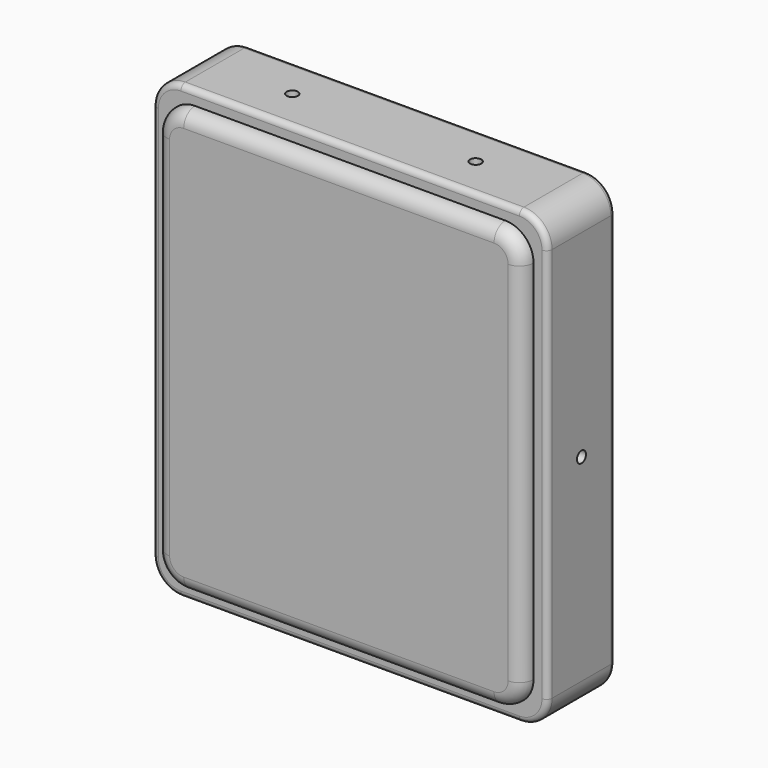
from build123d import *

# Parameters (mm, degrees)
F0_W          = 35.56
F0_H          = 40.64
F1_DEPTH      = 3.81
F1_DEPTH_BACK = 3.81
F3_DEPTH      = 5.08
F4_DEPTH      = 6.35
F5_R          = 2.54
F6_R          = 0.508
F7_R          = 1.27
F8_R          = 0.508
F9_DEPTH      = 35.561
F10_R         = 0.508
F11_DEPTH     = 40.641


with BuildPart() as f1:
    # F0 (on Front) → F1 (new body, two sides)
    with BuildSketch(Plane.XZ) as f1_sk:
        Rectangle(F0_W, F0_H)
    extrude(amount=F1_DEPTH)
    extrude(f1_sk.sketch, amount=-F1_DEPTH_BACK)

    # F2 (on face) → F3 (cut)
    with BuildSketch(Plane.XZ.offset(3.81)):
        with BuildLine():
            Line((13.97, 19.05), (-13.97, 19.05))
            ThreePointArc((-13.97, 19.05), (-15.7660512242, 18.3060512242), (-16.51, 16.51))
            Line((-16.51, 16.51), (-16.51, -16.51))
            ThreePointArc((-16.51, -16.51), (-15.7660512242, -18.3060512242), (-13.97, -19.05))
            Line((-13.97, -19.05), (13.97, -19.05))
            ThreePointArc((13.97, -19.05), (15.7660512242, -18.3060512242), (16.51, -16.51))
            Line((16.51, -16.51), (16.51, 16.51))
            ThreePointArc((16.51, 16.51), (15.7660512242, 18.3060512242), (13.97, 19.05))
        make_face()
    extrude(amount=-F3_DEPTH, mode=Mode.SUBTRACT)


with BuildPart() as f4:
    # F4 (new): a face of the model
    f4_faces = [f1.part.faces().sort_by_distance(p)[0] for p in [
        (0, 1.27, 0),
    ]]
    extrude(f4_faces, amount=F4_DEPTH)

    # F7
    f7_edges = [f4.edges().sort_by_distance(p)[0] for p in [
        (0, -5.08, 19.05),
        (-15.766051, -5.08, 18.306051),
        (-16.51, -5.08, 0),
        (-15.766051, -5.08, -18.306051),
        (0, -5.08, -19.05),
        (15.766051, -5.08, -18.306051),
        (16.51, -5.08, 0),
        (15.766051, -5.08, 18.306051),
    ]]
    fillet(f7_edges, radius=F7_R)


with BuildPart() as f1_1:
    add(f1.part)

    # F5
    f5_edges = [f1_1.edges().sort_by_distance(p)[0] for p in [
        (-17.78, 0, 20.32),
        (17.78, 0, 20.32),
        (17.78, 0, -20.32),
        (-17.78, 0, -20.32),
    ]]
    fillet(f5_edges, radius=F5_R)

    # F6
    f6_edges = [f1_1.edges().sort_by_distance(p)[0] for p in [
        (0, -3.81, 20.32),
        (-17.036051, -3.81, 19.576051),
        (-17.78, 3.81, 0),
        (-17.036051, 3.81, 19.576051),
        (-17.036051, 3.81, -19.576051),
        (0, 3.81, 20.32),
        (0, 3.81, -20.32),
        (17.036051, 3.81, 19.576051),
        (17.036051, 3.81, -19.576051),
        (17.78, 3.81, 0),
    ]]
    fillet(f6_edges, radius=F6_R)


with BuildPart() as f9_tool:
    # F8 (on face) → F9 (new body, through all)
    with BuildSketch(Plane.YZ.offset(17.78)):
        Circle(F8_R)
    extrude(amount=-F9_DEPTH)


with BuildPart() as f1_2:
    add(f1_1.part)

    # F9: cut by f9_tool
    add(f9_tool.part, mode=Mode.SUBTRACT)


with BuildPart() as f4_1:
    add(f4.part)

    # F9: cut by f9_tool
    add(f9_tool.part, mode=Mode.SUBTRACT)


with BuildPart() as f11_tool:
    # F10 (on face) → F11 (new body, through all)
    with BuildSketch(Plane.XY.offset(20.32)):
        with Locations((-8.255, 0)):
            Circle(F10_R)
        with Locations((8.255, 0)):
            Circle(F10_R)
    extrude(amount=-F11_DEPTH)


with BuildPart() as f1_3:
    add(f1_2.part)

    # F11: cut by f11_tool
    add(f11_tool.part, mode=Mode.SUBTRACT)


with BuildPart() as f4_2:
    add(f4_1.part)

    # F11: cut by f11_tool
    add(f11_tool.part, mode=Mode.SUBTRACT)


solid = Compound([f1_3.part, f4_2.part])
